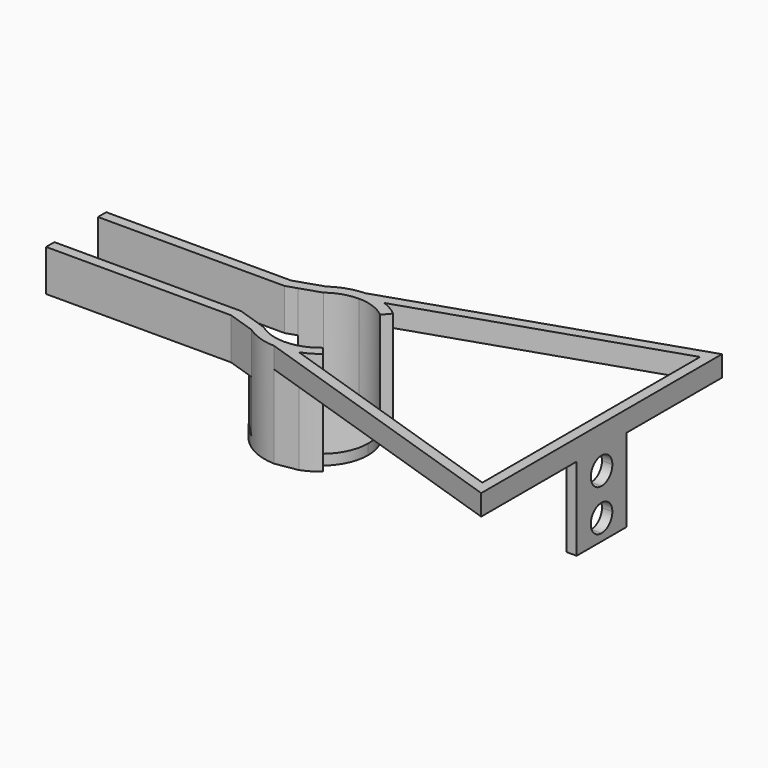
from build123d import *

# Parameters (mm, degrees)
F1_R      = 5.5
F2_DEPTH  = 10
F3_DEPTH  = 10
F5_DEPTH  = 10
F6_DEPTH  = 6
F7_DEPTH  = 10
F8_DEPTH  = 1
F9_DEPTH  = 1
F10_W     = 1
F10_H     = 3
F11_DEPTH = 10
F12_DEPTH = 8
F14_DEPTH = 1


with BuildPart() as f2:
    # F1 (on Top) → F2 (new body)
    with BuildSketch(Plane.XY):
        with Locations((23.6550478793, 2.625)):
            Circle(F1_R)
    extrude(amount=F2_DEPTH)

    # F0 (on Top) → F3 (cut)
    with BuildSketch(Plane.XY):
        with BuildLine():
            ThreePointArc((28.1550478793, 2.625), (27.733432921, 0.7232178222), (26.5475921229, -0.822199994))
            Line((26.5475921229, -0.822199994), (28.8864416499, -3.6095323204))
            Line((28.8864416499, -3.6095323204), (49.6550478793, -10.4956166668))
            Line((49.6550478793, -10.4956166668), (49.6550478793, 2.625))
            Line((49.6550478793, 2.625), (28.1550478793, 2.625))
        make_face()
        with BuildLine():
            Line((28.8864416499, 8.8595323204), (26.5475921229, 6.072199994))
            ThreePointArc((26.5475921229, 6.072199994), (27.733432921, 4.5267821778), (28.1550478793, 2.625))
            Line((28.1550478793, 2.625), (49.6550478793, 2.625))
            Line((49.6550478793, 2.625), (49.6550478793, 15.7456166668))
            Line((49.6550478793, 15.7456166668), (28.8864416499, 8.8595323204))
        make_face()
        with BuildLine():
            Line((23.6550478793, 2.625), (23.6550478793, -1.875))
            ThreePointArc((23.6550478793, -1.875), (25.1941385243, -1.6036167935), (26.5475921229, -0.822199994))
            Line((26.5475921229, -0.822199994), (23.6550478793, 2.625))
        make_face()
        with BuildLine():
            ThreePointArc((20, 5.25), (19.1550478793, 2.625), (20, 0))
            ThreePointArc((20, 0), (20.4453712418, -0.5290411987), (20.9665447643, -0.9835940476))
            Line((20.9665447643, -0.9835940476), (23.6550478793, -1.875))
            Line((23.6550478793, -1.875), (23.6550478793, 2.625))
            Line((23.6550478793, 2.625), (23.6550478793, 7.125))
            Line((23.6550478793, 7.125), (20.9665447643, 6.2335940476))
            ThreePointArc((20.9665447643, 6.2335940476), (20.4453712418, 5.7790411987), (20, 5.25))
        make_face()
        with BuildLine():
            ThreePointArc((26.5475921229, 6.072199994), (25.1941385243, 6.8536167935), (23.6550478793, 7.125))
            Line((23.6550478793, 7.125), (23.6550478793, 2.625))
            Line((23.6550478793, 2.625), (26.5475921229, 6.072199994))
        make_face()
        with BuildLine():
            Line((26.5475921229, 6.072199994), (23.6550478793, 2.625))
            Line((23.6550478793, 2.625), (28.1550478793, 2.625))
            ThreePointArc((28.1550478793, 2.625), (27.733432921, 4.5267821778), (26.5475921229, 6.072199994))
        make_face()
        with BuildLine():
            Line((23.6550478793, 2.625), (26.5475921229, -0.822199994))
            ThreePointArc((26.5475921229, -0.822199994), (27.733432921, 0.7232178222), (28.1550478793, 2.625))
            Line((28.1550478793, 2.625), (23.6550478793, 2.625))
        make_face()
        with BuildLine():
            Line((23.6550478793, -1.875), (20.9665447643, -0.9835940476))
            ThreePointArc((20.9665447643, -0.9835940476), (22.2388334206, -1.6463389712), (23.6550478793, -1.875))
        make_face()
        with BuildLine():
            ThreePointArc((23.6550478793, 7.125), (22.2388334206, 6.8963389712), (20.9665447643, 6.2335940476))
            Line((20.9665447643, 6.2335940476), (23.6550478793, 7.125))
        make_face()
    extrude(amount=F3_DEPTH, mode=Mode.SUBTRACT)

    # F4 (on Top) → F5 (join)
    with BuildSketch(Plane.XY):
        Polygon((0, 5.25), (18, 5.25), (19.0219422369, 5.5888373954), (20.506438149, 7.1345739007), (17.8385406763, 6.25), (0, 6.25), align=None)
        Polygon((19.0219422369, -0.3388373954), (18, 0), (0, 0), (0, -1), (17.8385406763, -1), (20.506438149, -1.8845739007), align=None)
    extrude(amount=F5_DEPTH)

    # F4 (on Top) → F6 (cut)
    with BuildSketch(Plane.XY):
        Polygon((0, 5.25), (18, 5.25), (19.0219422369, 5.5888373954), (20.506438149, 7.1345739007), (17.8385406763, 6.25), (0, 6.25), align=None)
        Polygon((19.0219422369, -0.3388373954), (18, 0), (0, 0), (0, -1), (17.8385406763, -1), (20.506438149, -1.8845739007), align=None)
    extrude(amount=F6_DEPTH, mode=Mode.SUBTRACT)

    # F0 (on Top) → F7 (cut)
    with BuildSketch(Plane.XY):
        with BuildLine():
            Line((0, 5.25), (0, 0))
            Line((0, 0), (18, 0))
            Line((18, 0), (20, 0))
            ThreePointArc((20, 0), (19.1550478793, 2.625), (20, 5.25))
            Line((20, 5.25), (18, 5.25))
            Line((18, 5.25), (0, 5.25))
        make_face()
        with BuildLine():
            Line((20, 0), (18, 0))
            Line((18, 0), (20.9665447643, -0.9835940476))
            ThreePointArc((20.9665447643, -0.9835940476), (20.4453712418, -0.5290411987), (20, 0))
        make_face()
        with BuildLine():
            Line((20.9665447643, 6.2335940476), (18, 5.25))
            Line((18, 5.25), (20, 5.25))
            ThreePointArc((20, 5.25), (20.4453712418, 5.7790411987), (20.9665447643, 6.2335940476))
        make_face()
    extrude(amount=F7_DEPTH, mode=Mode.SUBTRACT)

    # F1 (on Top) → F8 (join)
    with BuildSketch(Plane.XY):
        with Locations((23.6550478793, 2.625)):
            Circle(F1_R)
    extrude(amount=F8_DEPTH)

    # F0 (on Top) → F9 (cut)
    with BuildSketch(Plane.XY):
        with BuildLine():
            Line((0, 5.25), (0, 0))
            Line((0, 0), (18, 0))
            Line((18, 0), (20, 0))
            ThreePointArc((20, 0), (19.1550478793, 2.625), (20, 5.25))
            Line((20, 5.25), (18, 5.25))
            Line((18, 5.25), (0, 5.25))
        make_face()
        with BuildLine():
            ThreePointArc((28.1550478793, 2.625), (27.733432921, 0.7232178222), (26.5475921229, -0.822199994))
            Line((26.5475921229, -0.822199994), (28.8864416499, -3.6095323204))
            Line((28.8864416499, -3.6095323204), (49.6550478793, -10.4956166668))
            Line((49.6550478793, -10.4956166668), (49.6550478793, 2.625))
            Line((49.6550478793, 2.625), (28.1550478793, 2.625))
        make_face()
        with BuildLine():
            Line((28.8864416499, 8.8595323204), (26.5475921229, 6.072199994))
            ThreePointArc((26.5475921229, 6.072199994), (27.733432921, 4.5267821778), (28.1550478793, 2.625))
            Line((28.1550478793, 2.625), (49.6550478793, 2.625))
            Line((49.6550478793, 2.625), (49.6550478793, 15.7456166668))
            Line((49.6550478793, 15.7456166668), (28.8864416499, 8.8595323204))
        make_face()
    extrude(amount=F9_DEPTH, mode=Mode.SUBTRACT)

    # F10 (on Top) → F11 (join)
    with BuildSketch(Plane.XY):
        Polygon((23.4857258463, 8.122393023), (25.5996504067, 7.7697566522), (49.6550478793, 15.7456166668), (49.6550478793, 5.625), (50.6550478793, 5.625), (50.6550478793, 17.1307126516), align=None)
        Polygon((50.6550478793, -0.375), (49.6550478793, -0.375), (49.6550478793, -10.4956166668), (25.5996504067, -2.5197566522), (23.4857258463, -2.872393023), (50.6550478793, -11.8807126516), align=None)
        with Locations((50.1550478793, 1.125)):
            Rectangle(F10_W, F10_H)
        with Locations((50.1550478793, 4.125)):
            Rectangle(F10_W, F10_H)
    extrude(amount=F11_DEPTH)

    # F10 (on Top) → F12 (cut)
    with BuildSketch(Plane.XY):
        Polygon((23.4857258463, 8.122393023), (25.5996504067, 7.7697566522), (49.6550478793, 15.7456166668), (49.6550478793, 5.625), (50.6550478793, 5.625), (50.6550478793, 17.1307126516), align=None)
        Polygon((50.6550478793, -0.375), (49.6550478793, -0.375), (49.6550478793, -10.4956166668), (25.5996504067, -2.5197566522), (23.4857258463, -2.872393023), (50.6550478793, -11.8807126516), align=None)
    extrude(amount=F12_DEPTH, mode=Mode.SUBTRACT)

    # F13 (on face) → F14 (cut)
    with BuildSketch(Plane.YZ.offset(50.6550478793)):
        with BuildLine():
            ThreePointArc((2.625, 4.7), (3.5442388155, 5.0807611845), (3.925, 6))
            ThreePointArc((3.925, 6), (3.5442388155, 6.9192388155), (2.625, 7.3))
            Line((2.625, 7.3), (2.625, 4.7))
        make_face()
        with BuildLine():
            ThreePointArc((3.925, 2), (3.5442388155, 2.9192388155), (2.625, 3.3))
            Line((2.625, 3.3), (2.625, 0.7))
            ThreePointArc((2.625, 0.7), (3.5442388155, 1.0807611845), (3.925, 2))
        make_face()
        with BuildLine():
            Line((2.625, 0.7), (2.625, 3.3))
            ThreePointArc((2.625, 3.3), (1.325, 2), (2.625, 0.7))
        make_face()
        with BuildLine():
            Line((2.625, 4.7), (2.625, 7.3))
            ThreePointArc((2.625, 7.3), (1.325, 6), (2.625, 4.7))
        make_face()
    extrude(amount=-F14_DEPTH, mode=Mode.SUBTRACT)


solid = f2.part
